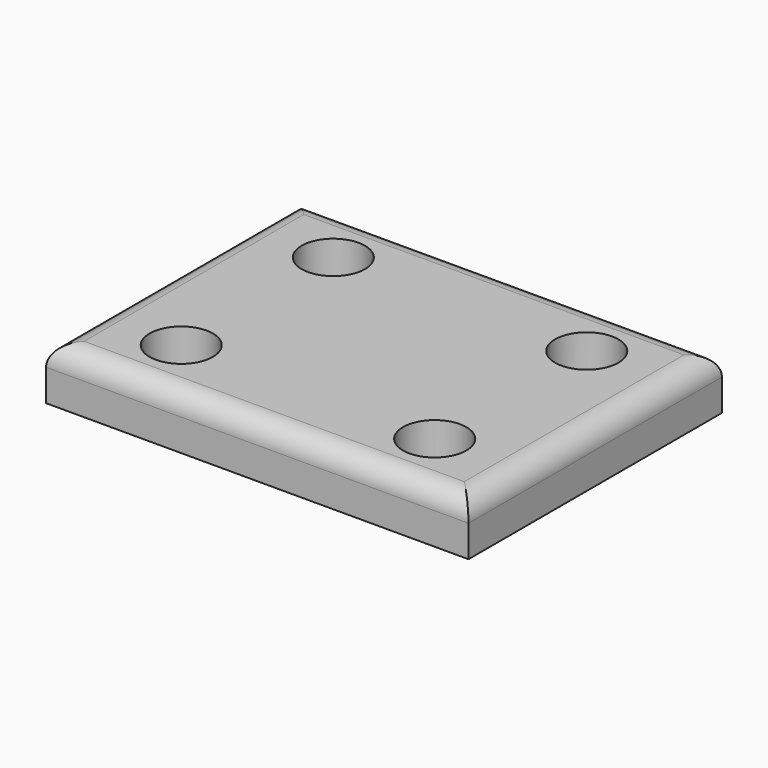
from build123d import *

# Parameters (mm, degrees)
F0_R     = 3
F1_DEPTH = 25
F4_W     = 40
F4_H     = 30
F5_DEPTH = 5
F7_R     = 2


with BuildPart() as f1:
    # F0 (on Top) → F1 (new body)
    with BuildSketch(Plane.XY):
        with Locations((-12, 9)):
            Circle(F0_R)
    extrude(amount=F1_DEPTH)


with BuildPart() as f2_1:
    # F2: instance of F1
    add(f1.part.mirror(Plane.YZ))


with BuildPart() as f3_1:
    # F3: instance of F1
    add(f1.part.mirror(Plane.XZ))


with BuildPart() as f3_2:
    # F3: instance of F2_1
    add(f2_1.part.mirror(Plane.XZ))


with BuildPart() as f5:
    # F4 (on Top) → F5 (new body)
    with BuildSketch(Plane.XY):
        Rectangle(F4_W, F4_H)
    extrude(amount=F5_DEPTH)

    # F6: cut F1, F2_1, F3_1, F3_2
    add(f1.part, mode=Mode.SUBTRACT)
    add(f2_1.part, mode=Mode.SUBTRACT)
    add(f3_1.part, mode=Mode.SUBTRACT)
    add(f3_2.part, mode=Mode.SUBTRACT)

    # F7
    f7_edges = [f5.edges().sort_by_distance(p)[0] for p in [
        (0, -15, 5),
        (-20, 0, 5),
        (0, 15, 5),
        (20, 0, 5),
    ]]
    fillet(f7_edges, radius=F7_R)


solid = f5.part
